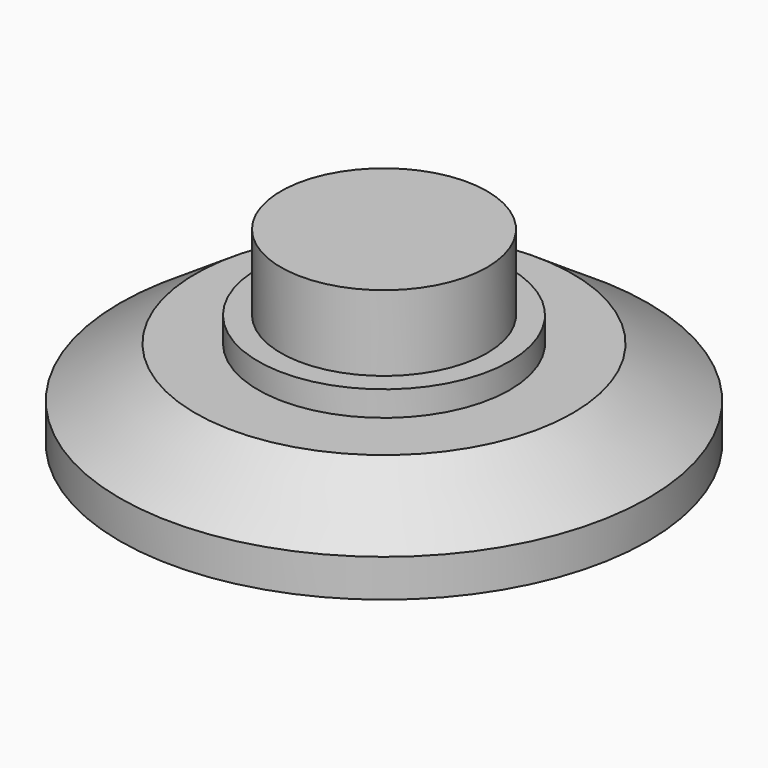
from build123d import *

# Parameters (mm, degrees)
F0_R     = 10.5
F1_DEPTH = 3.5
F2_R     = 5
F3_DEPTH = 1
F4_R     = 4.1
F5_DEPTH = 3
F6_SIZE2 = 2
F6_SIZE  = 3


with BuildPart() as f1:
    # F0 (on Top) → F1 (new body)
    with BuildSketch(Plane.XY):
        Circle(F0_R)
    extrude(amount=F1_DEPTH)

    # F2 (on face) → F3 (join)
    with BuildSketch(Plane.XY.offset(3.5)):
        Circle(F2_R)
    extrude(amount=F3_DEPTH)

    # F4 (on face) → F5 (join)
    with BuildSketch(Plane.XY.offset(4.5)):
        Circle(F4_R)
    extrude(amount=F5_DEPTH)

    # F6
    f6_edges = [f1.edges().sort_by_distance(p)[0] for p in [
        (-10.5, 0, 3.5),
    ]]
    f6_side = f1.faces().sort_by_distance((-10.203015, 0, 3.5))[0]
    chamfer(f6_edges, length=F6_SIZE, length2=F6_SIZE2, reference=f6_side)


solid = f1.part
